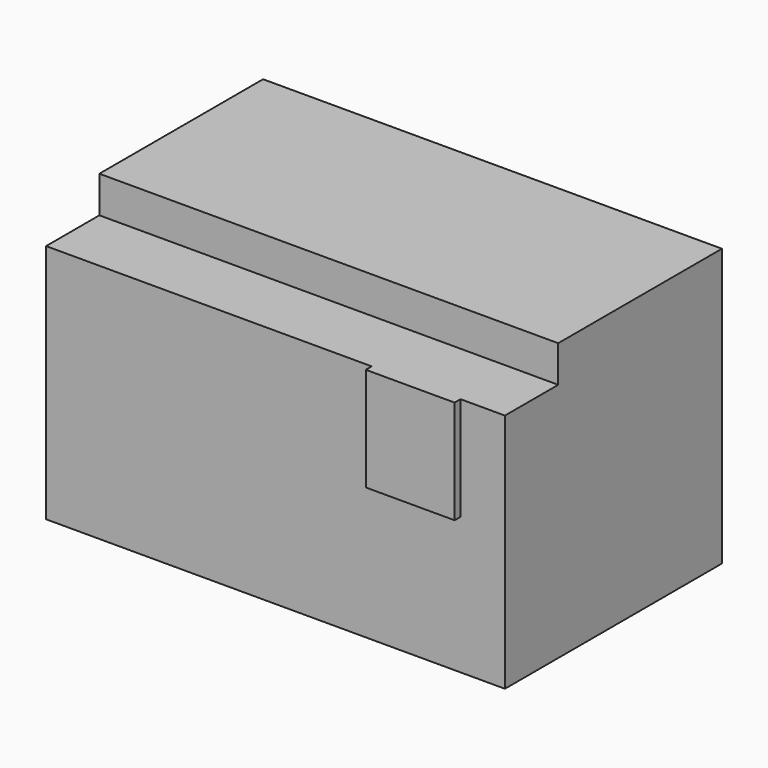
from build123d import *

# Parameters (mm, degrees)
F1_DEPTH = 1574.8
F2_W     = 609.6
F2_H     = 711.2
F3_DEPTH = 50.8


with BuildPart() as f1:
    # F0 (on Right) → F1 (new body, symmetric)
    with BuildSketch(Plane.YZ):
        Polygon((0, 1651), (0, 0), (1861.82, 0), (1861.82, 1902.46), (457.2, 1902.46), (457.2, 1651), align=None)
    extrude(amount=F1_DEPTH, both=True)

    # F2 (on face) → F3 (join)
    with BuildSketch(Plane.XZ):
        with Locations((965.2, 1295.4)):
            Rectangle(F2_W, F2_H)
    extrude(amount=F3_DEPTH)


solid = f1.part
